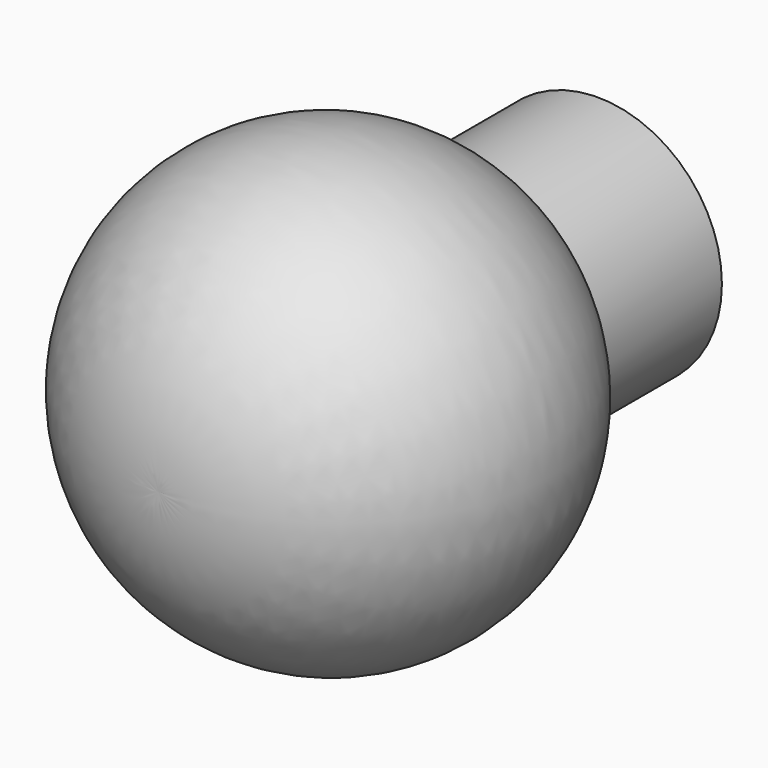
from build123d import *


with BuildPart() as f1:
    # F0 (on Top) → F1 (revolve)
    with BuildSketch(Plane.XY):
        with BuildLine():
            Line((24.74826, 35.575625), (0, 35.575625))
            Line((0, 35.575625), (0, -74.091203))
            ThreePointArc((0, -74.091203), (42.414558, -44.517459), (24.74826, 4.077838))
            Line((24.74826, 4.077838), (24.74826, 35.575625))
        make_face()
    revolve(axis=Axis((0, -9.464681, 0), (0, -1, 0)))


solid = f1.part
